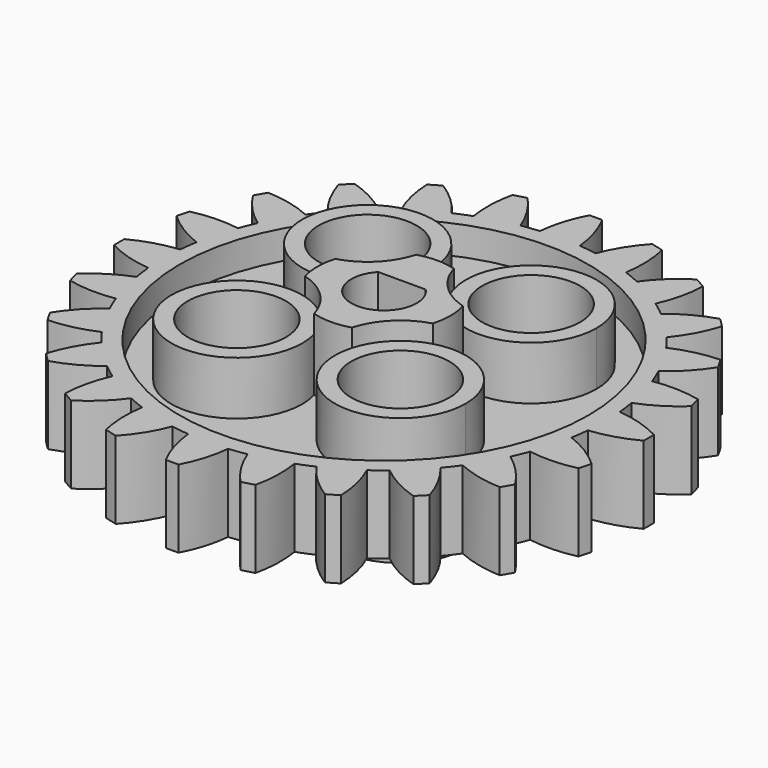
from build123d import *

# Parameters (mm, degrees)
F0_R     = 2.4
F1_DEPTH = 3.12
F2_DEPTH = 4
F0_R_2   = 10
F3_DEPTH = 0.5
F4_DEPTH = 1.9
F5_DEPTH = 1.9
F6_COUNT = 24


with BuildPart() as f1:
    # F0 (on Top) → F1 (new body, symmetric)
    with BuildSketch(Plane.XY):
        with BuildLine():
            ThreePointArc((-0.9223763778, 3.1235110725), (-0.8307417594, 3.5575045713), (-0.8, 4))
            ThreePointArc((-0.8, 4), (-6.5538955116, 5.9281124749), (-3.1235110725, 0.9223763778))
            ThreePointArc((-3.1235110725, 0.9223763778), (-1.7372583002, 1.7372583002), (-0.9223763778, 3.1235110725))
        make_face()
        with Locations((-4, 4)):
            Circle(F0_R, mode=Mode.SUBTRACT)
    extrude(amount=F1_DEPTH, both=True)



with BuildPart() as f1b:
    # F0 (on Top) → F1, piece 2 (new body, symmetric)
    with BuildSketch(Plane.XY):
        with BuildLine():
            ThreePointArc((7.2, 4), (3.5575045713, 7.1692582406), (0.9223763778, 3.1235110725))
            ThreePointArc((0.9223763778, 3.1235110725), (1.7372583002, 1.7372583002), (3.1235110725, 0.9223763778))
            ThreePointArc((3.1235110725, 0.9223763778), (5.9281124749, 1.4461044884), (7.2, 4))
        make_face()
        with Locations((4, 4)):
            Circle(F0_R, mode=Mode.SUBTRACT)
    extrude(amount=F1_DEPTH, both=True)


with BuildPart() as f1c:
    # F0 (on Top) → F1, piece 3 (new body, symmetric)
    with BuildSketch(Plane.XY):
        with BuildLine():
            ThreePointArc((3.1235110725, -0.9223763778), (1.7372583002, -1.7372583002), (0.9223763778, -3.1235110725))
            ThreePointArc((0.9223763778, -3.1235110725), (3.5575045713, -7.1692582406), (7.2, -4))
            ThreePointArc((7.2, -4), (5.9281124749, -1.4461044884), (3.1235110725, -0.9223763778))
        make_face()
        with Locations((4, -4)):
            Circle(F0_R, mode=Mode.SUBTRACT)
    extrude(amount=F1_DEPTH, both=True)


with BuildPart() as f1d:
    # F0 (on Top) → F1, piece 4 (new body, symmetric)
    with BuildSketch(Plane.XY):
        with BuildLine():
            ThreePointArc((-0.9223763778, -3.1235110725), (-1.7372583002, -1.7372583002), (-3.1235110725, -0.9223763778))
            ThreePointArc((-3.1235110725, -0.9223763778), (-6.5538955116, -5.9281124749), (-0.8, -4))
            ThreePointArc((-0.8, -4), (-0.8307417594, -3.5575045713), (-0.9223763778, -3.1235110725))
        make_face()
        with Locations((-4, -4)):
            Circle(F0_R, mode=Mode.SUBTRACT)
    extrude(amount=F1_DEPTH, both=True)


with BuildPart() as f1_1:
    add(f1.part)

    add(f1b.part)  # F2 merges F1b

    add(f1c.part)  # F2 merges F1c

    add(f1d.part)  # F2 merges F1d
    # F0 (on Top) → F2 (join, symmetric)
    with BuildSketch(Plane.XY):
        with BuildLine():
            ThreePointArc((-0.9223763778, 3.1235110725), (-1.7372583002, 1.7372583002), (-3.1235110725, 0.9223763778))
            ThreePointArc((-3.1235110725, 0.9223763778), (-3.2568542495, 0), (-3.1235110725, -0.9223763778))
            ThreePointArc((-3.1235110725, -0.9223763778), (-1.7372583002, -1.7372583002), (-0.9223763778, -3.1235110725))
            ThreePointArc((-0.9223763778, -3.1235110725), (0, -3.2568542495), (0.9223763778, -3.1235110725))
            ThreePointArc((0.9223763778, -3.1235110725), (1.7372583002, -1.7372583002), (3.1235110725, -0.9223763778))
            ThreePointArc((3.1235110725, -0.9223763778), (3.2568542495, 0), (3.1235110725, 0.9223763778))
            ThreePointArc((3.1235110725, 0.9223763778), (1.7372583002, 1.7372583002), (0.9223763778, 3.1235110725))
            ThreePointArc((0.9223763778, 3.1235110725), (0, 3.2568542495), (-0.9223763778, 3.1235110725))
        make_face()
        with BuildLine():
            ThreePointArc((1.1618950039, 1.1), (0, -1.6), (-1.1618950039, 1.1))
            Line((-1.1618950039, 1.1), (1.1618950039, 1.1))
        make_face(mode=Mode.SUBTRACT)
    extrude(amount=F2_DEPTH, both=True)

    # F0 (on Top) → F3 (join, symmetric)
    with BuildSketch(Plane.XY):
        Circle(F0_R_2)
        with BuildLine():
            ThreePointArc((-3.1235110725, 0.9223763778), (-6.5538955116, 5.9281124749), (-0.8, 4))
            ThreePointArc((-0.8, 4), (-0.8307417594, 3.5575045713), (-0.9223763778, 3.1235110725))
            ThreePointArc((-0.9223763778, 3.1235110725), (0, 3.2568542495), (0.9223763778, 3.1235110725))
            ThreePointArc((0.9223763778, 3.1235110725), (3.5575045713, 7.1692582406), (7.2, 4))
            ThreePointArc((7.2, 4), (5.9281124749, 1.4461044884), (3.1235110725, 0.9223763778))
            ThreePointArc((3.1235110725, 0.9223763778), (3.2568542495, 0), (3.1235110725, -0.9223763778))
            ThreePointArc((3.1235110725, -0.9223763778), (5.9281124749, -1.4461044884), (7.2, -4))
            ThreePointArc((7.2, -4), (3.5575045713, -7.1692582406), (0.9223763778, -3.1235110725))
            ThreePointArc((0.9223763778, -3.1235110725), (0, -3.2568542495), (-0.9223763778, -3.1235110725))
            ThreePointArc((-0.9223763778, -3.1235110725), (-0.8307417594, -3.5575045713), (-0.8, -4))
            ThreePointArc((-0.8, -4), (-6.5538955116, -5.9281124749), (-3.1235110725, -0.9223763778))
            ThreePointArc((-3.1235110725, -0.9223763778), (-3.2568542495, 0), (-3.1235110725, 0.9223763778))
        make_face(mode=Mode.SUBTRACT)
    extrude(amount=F3_DEPTH, both=True)

    # F0 (on Top) → F4 (join, symmetric)
    with BuildSketch(Plane.XY):
        with BuildLine():
            ThreePointArc((10.8, 0), (7.9754790051, 7.2822891071), (0.9793084001, 10.7555081264))
            ThreePointArc((0.9793084001, 10.7555081264), (0, 10.8), (-0.9793084001, 10.7555081264))
            ThreePointArc((-0.9793084001, 10.7555081264), (-7.2822891071, -7.9754790051), (10.8, 0))
        make_face()
        Circle(F0_R_2, mode=Mode.SUBTRACT)
    extrude(amount=F4_DEPTH, both=True)



with BuildPart() as f5:
    # F0 (on Top) → F5 (new body, symmetric)
    with BuildSketch(Plane.XY):
        with BuildLine():
            ThreePointArc((0.9793084001, 10.7555081264), (0.7528808852, 11.88803819), (0.3136589602, 12.9562038444))
            ThreePointArc((0.3136589602, 12.9562038444), (0, 12.96), (-0.3136589602, 12.9562038444))
            ThreePointArc((-0.3136589602, 12.9562038444), (-0.7528808852, 11.88803819), (-0.9793084001, 10.7555081264))
            ThreePointArc((-0.9793084001, 10.7555081264), (0, 10.8), (0.9793084001, 10.7555081264))
        make_face()
    extrude(amount=F5_DEPTH, both=True)


with BuildPart() as f1_2:
    add(f1_1.part)

    add(f5.part)  # F6 merges F5
    # F6: F5 ×24 about axis
    f6_axis = Axis((0, 0, 0), (0, 0, 1))
    for i in range(1, F6_COUNT):
        add(f5.part.rotate(f6_axis, i * 360 / F6_COUNT))


solid = f1_2.part
